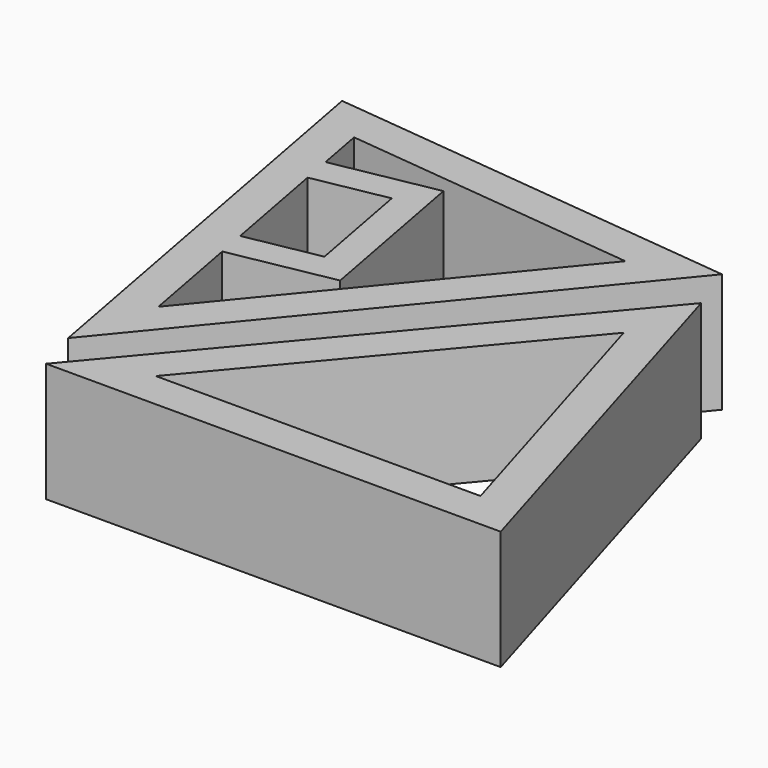
from build123d import *

# Parameters (mm, degrees)
F1_DEPTH = 16


with BuildPart() as f1:
    # F0 (on Top) → F1 (new body)
    with BuildSketch(Plane.XY):
        Polygon((-1.8307172417, 5.993409444), (42.6066645263, 60.0796285909), (-13.0430408452, 65.9442169097), (-10.1025255134, 50.2216713659), align=None)
        Polygon((-2.2335933527, 35.3454163541), (-4.9911610426, 50.0897651168), (4.8384047992, 51.9281435767), (7.5959724891, 37.183794814), align=None, mode=Mode.SUBTRACT)
        Polygon((-6.8948634806, 60.268609607), (32.8495603914, 56.0801834074), (1.1128580143, 17.4523846606), (-1.4982419687, 31.4135900174), (12.2631502098, 33.9873198613), (8.034879752, 56.5953212974), (-5.7265124265, 54.0215914535), align=None, mode=Mode.SUBTRACT)
        Polygon((-1.8307172417, 5.993409444), (42.6066645263, 60.0796285909), (-13.0430408452, 65.9442169097), (-10.1025255134, 50.2216713659), align=None)
        Polygon((-2.2335933527, 35.3454163541), (-4.9911610426, 50.0897651168), (4.8384047992, 51.9281435767), (7.5959724891, 37.183794814), align=None, mode=Mode.SUBTRACT)
        Polygon((-6.8948634806, 60.268609607), (32.8495603914, 56.0801834074), (1.1128580143, 17.4523846606), (-1.4982419687, 31.4135900174), (12.2631502098, 33.9873198613), (8.034879752, 56.5953212974), (-5.7265124265, 54.0215914535), align=None, mode=Mode.SUBTRACT)
    extrude(amount=F1_DEPTH)


with BuildPart() as f1b:
    # F0 (on Top) → F1, piece 2 (new body)
    with BuildSketch(Plane.XY):
        Polygon((44.9951326781, 53.6231110183), (0, 0), (44.9951326781, 0), (60.9902903451, 0), align=None)
        Polygon((10.7225346025, 5), (42.8575767091, 43.2970518787), (54.2811470942, 5), align=None, mode=Mode.SUBTRACT)
    extrude(amount=F1_DEPTH)


solid = Compound([f1.part, f1b.part])
